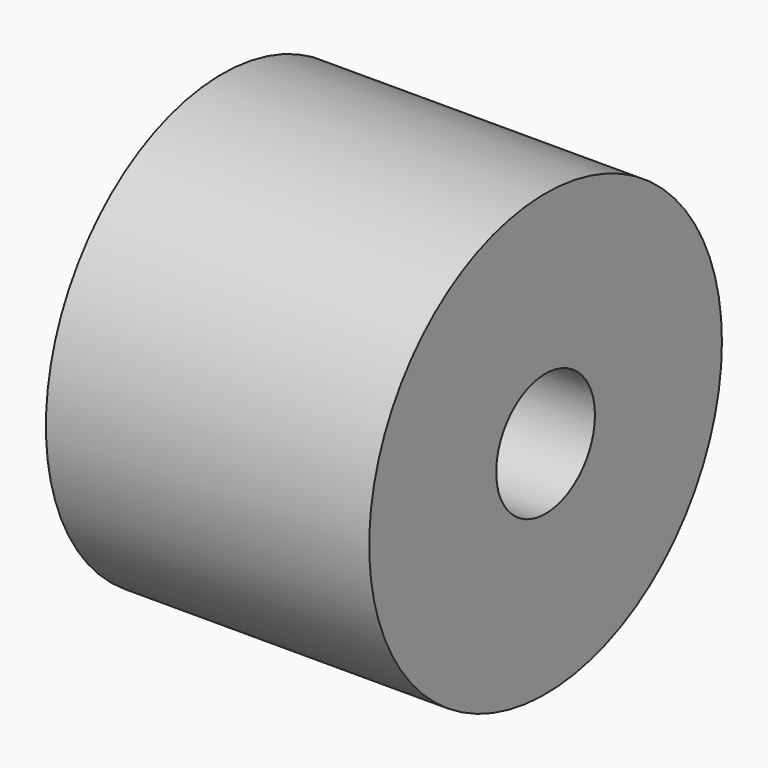
from build123d import *

# Parameters (mm, degrees)
F0_R     = 75
F1_DEPTH = 110
F2_R     = 21
F3_DEPTH = 110.001


with BuildPart() as f1:
    # F0 (on Right) → F1 (new body)
    with BuildSketch(Plane.YZ):
        Circle(F0_R)
    extrude(amount=F1_DEPTH)

    # F2 (on face) → F3 (cut, through all)
    with BuildSketch(Plane.YZ.offset(110)):
        Circle(F2_R)
    extrude(amount=-F3_DEPTH, mode=Mode.SUBTRACT)


solid = f1.part
